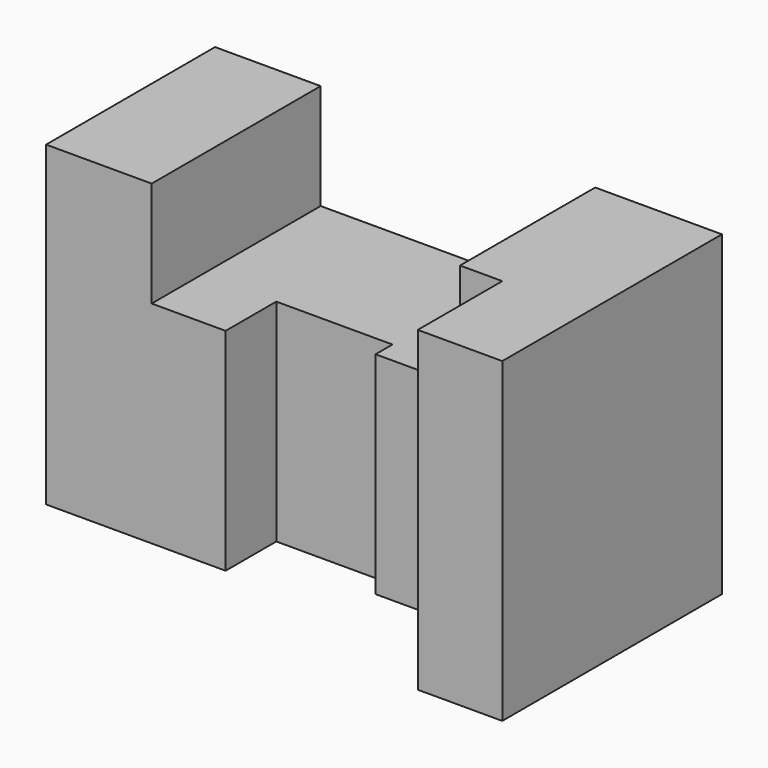
from build123d import *

# Parameters (mm, degrees)
F1_DEPTH = 75
F3_DEPTH = 25


with BuildPart() as f1:
    # F0 (on Top) → F1 (new body)
    with BuildSketch(Plane.XY):
        Polygon((120, 50), (0, 50), (0, 0), (42.5, 0), (42.5, 15), (70, 15), (70, 10), (100, 10), (100, -15), (120, -15), align=None)
    extrude(amount=F1_DEPTH)

    # F2 (on face) → F3 (cut)
    with BuildSketch(Plane.XY.offset(75)):
        Polygon((90, 10), (90, 50), (25, 50), (25, 0), (42.5, 0), (42.5, 15), (70, 15), (70, 10), align=None)
    extrude(amount=-F3_DEPTH, mode=Mode.SUBTRACT)


solid = f1.part
